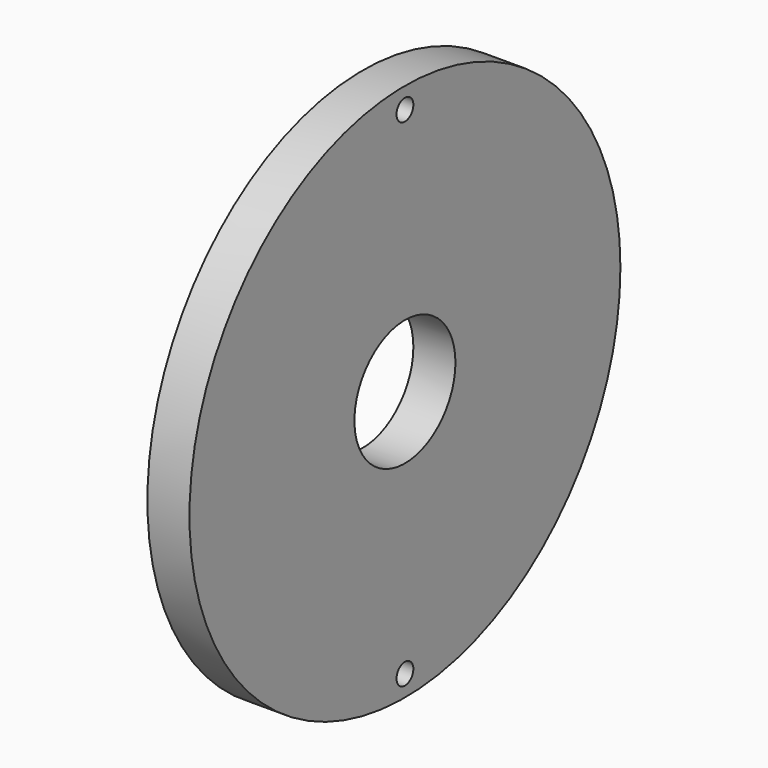
from build123d import *

# Parameters (mm, degrees)
F0_R     = 40.64
F1_DEPTH = 6.35
F2_R     = 1.5875
F3_DEPTH = 6.35
F4_R     = 9.525
F5_DEPTH = 6.35


with BuildPart() as f1:
    # F0 (on Right) → F1 (new body)
    with BuildSketch(Plane.YZ):
        Circle(F0_R)
    extrude(amount=F1_DEPTH)

    # F2 (on face) → F3 (cut)
    with BuildSketch(Plane.YZ.offset(6.35)):
        with Locations((0, 37.465)):
            Circle(F2_R)
        with Locations((0, -37.465)):
            Circle(F2_R)
    extrude(amount=-F3_DEPTH, mode=Mode.SUBTRACT)

    # F4 (on face) → F5 (cut)
    with BuildSketch(Plane.YZ.offset(6.35)):
        Circle(F4_R)
    extrude(amount=-F5_DEPTH, mode=Mode.SUBTRACT)


solid = f1.part
